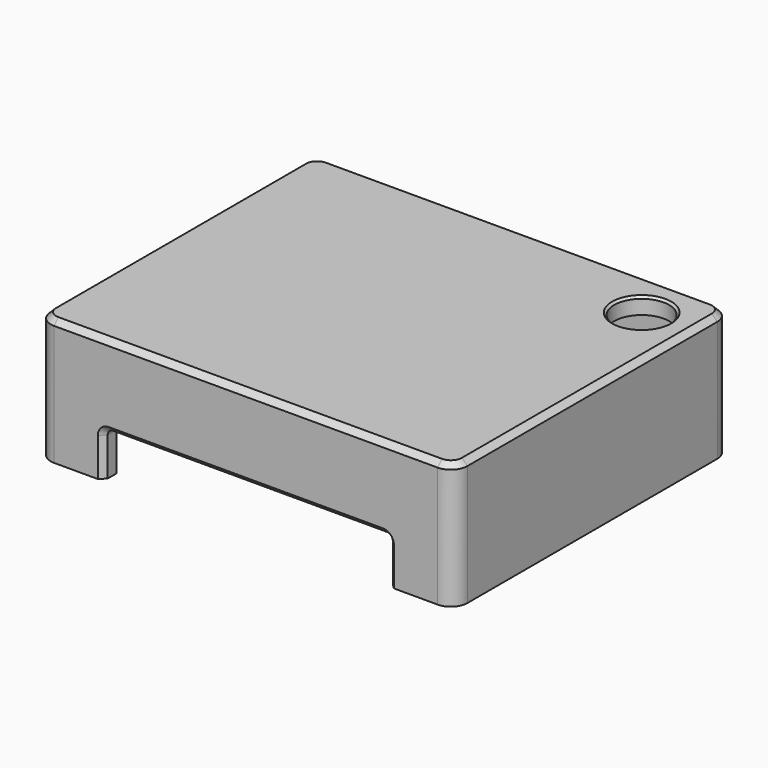
from build123d import *

# Parameters (mm, degrees)
SKETCH014_W           = 76
SKETCH014_H           = 63
PAD003_DEPTH          = 23
FILLET004_R           = 3
SKETCH015_W           = 70
SKETCH015_H           = 57
POCKET011_DEPTH       = 20
SKETCH016_W           = 52
SKETCH016_H           = 8
POCKET012_DEPTH       = 5
POCKET013_DEPTH       = 5
FILLET007007_R        = 2
FILLET007008_R        = 1
CHAMFER013004008_SIZE = 1
SKETCH018_R           = 5
POCKET014_DEPTH       = 23.001
CHAMFER013004010_SIZE = 0.4


with BuildPart() as part:
    # Sketch014 → Pad003 (new body)
    with BuildSketch(Plane.XY):
        with Locations((0, 3.5)):
            Rectangle(SKETCH014_W, SKETCH014_H)
    extrude(amount=PAD003_DEPTH)

    # Fillet004
    fillet004_edges = [part.edges().sort_by_distance(p)[0] for p in [
        (-38, 35, 11.5),
        (-38, -28, 11.5),
        (38, -28, 11.5),
        (38, 35, 11.5),
    ]]
    fillet(fillet004_edges, radius=FILLET004_R)

    # Sketch015 (on Face2 of Fillet004) → Pocket011 (cut)
    with BuildSketch(Plane(origin=(0, 0, 0), x_dir=(1, 0, 0), z_dir=(0, 0, -1))):
        with Locations((0, -3.5)):
            Rectangle(SKETCH015_W, SKETCH015_H)
    extrude(amount=-POCKET011_DEPTH, mode=Mode.SUBTRACT)

    # Sketch016 (on Face10 of Pocket011) → Pocket012 (cut)
    with BuildSketch(Plane.XZ.offset(28)):
        with Locations((0, 4)):
            Rectangle(SKETCH016_W, SKETCH016_H)
    extrude(amount=-POCKET012_DEPTH, mode=Mode.SUBTRACT)

    # Sketch017 (on Face6 of Pocket012) → Pocket013 (cut)
    with BuildSketch(Plane(origin=(-38, 0, 0), x_dir=(0, -1, 0), z_dir=(-1, 0, 0))):
        with BuildLine():
            ThreePointArc((-20, 8), (-24, 12), (-28, 8))
            Line((-28, 8), (-28, 0))
            Line((-28, 0), (-20, 0))
            Line((-20, 0), (-20, 8))
        make_face()
    extrude(amount=-POCKET013_DEPTH, mode=Mode.SUBTRACT)

    # Fillet007007
    fillet007007_edges = [part.edges().sort_by_distance(p)[0] for p in [
        (-35, 32, 10),
        (-35, -25, 10),
        (35, -25, 10),
        (35, 32, 10),
    ]]
    fillet(fillet007007_edges, radius=FILLET007007_R)

    # Fillet007008
    fillet007008_edges = [part.edges().sort_by_distance(p)[0] for p in [
        (-26, -26.5, 8),
        (26, -26.5, 8),
    ]]
    fillet(fillet007008_edges, radius=FILLET007008_R)

    # Chamfer013004008
    chamfer013004008_edges = [part.edges().sort_by_distance(p)[0] for p in [
        (0, 35, 23),
        (-37.12132, 34.12132, 23),
        (37.12132, 34.12132, 23),
        (-38, 3.5, 23),
        (38, 3.5, 23),
        (-37.12132, -27.12132, 23),
        (37.12132, -27.12132, 23),
        (0, -28, 23),
        (-38, 28, 4),
        (-38, 24, 12),
        (-38, 20, 4),
        (-26, -28, 3.5),
        (-25.707107, -28, 7.707107),
        (0, -28, 8),
        (26, -28, 3.5),
        (25.707107, -28, 7.707107),
    ]]
    chamfer(chamfer013004008_edges, length=CHAMFER013004008_SIZE)

    # Sketch018 (on Face40 of Chamfer013004008) → Pocket014 (cut, through all)
    with BuildSketch(Plane.XY.offset(23)):
        with Locations((29, 26)):
            Circle(SKETCH018_R)
    extrude(amount=-POCKET014_DEPTH, mode=Mode.SUBTRACT)

    # Chamfer013004010
    chamfer013004010_edges = [part.edges().sort_by_distance(p)[0] for p in [
        (24, 26, 23),
    ]]
    chamfer(chamfer013004010_edges, length=CHAMFER013004010_SIZE)


with BuildPart() as part_1:
    # Body002 placement: moved
    add(part.part.moved(Location((0, 0, 12))))


solid = part_1.part
